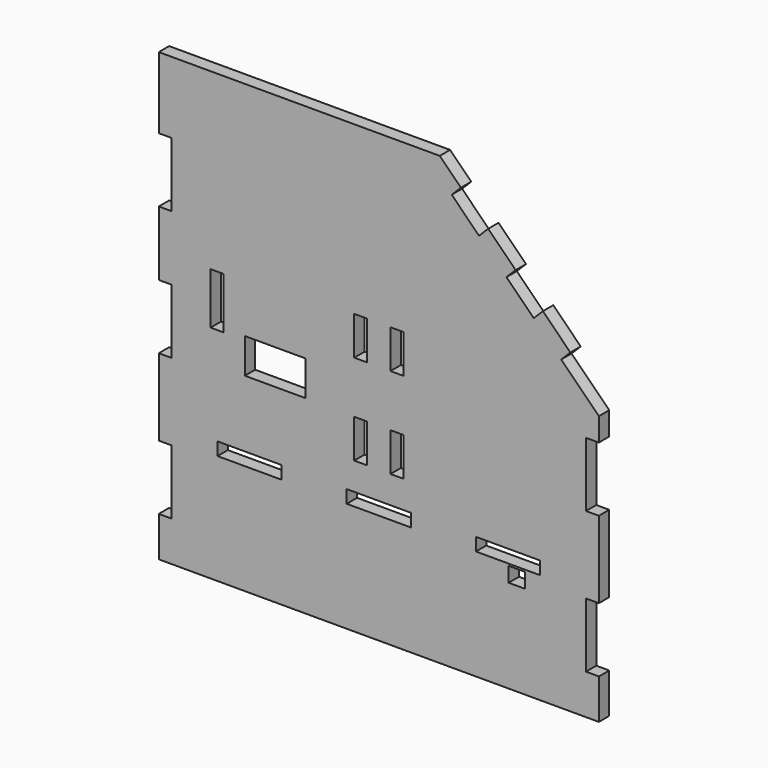
from build123d import *

# Parameters (mm, degrees)
SKETCH_W   = 49.6
SKETCH_H   = 10
SKETCH_W_2 = 10
SKETCH_H_2 = 39.8
SKETCH_W_3 = 47
SKETCH_H_3 = 27
SKETCH_H_4 = 29.8
SKETCH_W_4 = 12.5
SKETCH_H_5 = 11.5
PAD_DEPTH  = 10


with BuildPart() as part:
    # Sketch → Pad (new body)
    with BuildSketch(Plane.XZ):
        Polygon((0, 0), (0, 30.933), (10, 30.933), (10, 80.733), (0, 80.733), (0, 140.2), (10, 140.2), (10, 190), (0, 190), (0, 240), (10, 240), (10, 289.8), (0, 289.8), (0, 345), (217.0709, 345), (233.405067, 328.665833), (226.333999, 321.594766), (247.405781, 300.522983), (254.476849, 307.594051), (275.690052, 286.380848), (268.618985, 279.30978), (289.690767, 258.237998), (296.761835, 265.309066), (317.975038, 244.095862), (310.90397, 237.024795), (340, 207.928765), (340, 189.999765), (330, 189.999765), (330, 140.199765), (340, 140.199765), (340, 80.733), (330, 80.733), (330, 30.933), (340, 30.933), (340, 0), align=None)
        with Locations((70.2, 90)):
            Rectangle(SKETCH_W, SKETCH_H, mode=Mode.SUBTRACT)
        with Locations((170, 90)):
            Rectangle(SKETCH_W, SKETCH_H, mode=Mode.SUBTRACT)
        with Locations((269.8, 90)):
            Rectangle(SKETCH_W, SKETCH_H, mode=Mode.SUBTRACT)
        with Locations((45, 190.5)):
            Rectangle(SKETCH_W_2, SKETCH_H_2, mode=Mode.SUBTRACT)
        with Locations((90, 160)):
            Rectangle(SKETCH_W_3, SKETCH_H_3, mode=Mode.SUBTRACT)
        with Locations((156, 201.16)):
            Rectangle(SKETCH_W_2, SKETCH_H_4, mode=Mode.SUBTRACT)
        with Locations((184, 201.16)):
            Rectangle(SKETCH_W_2, SKETCH_H_4, mode=Mode.SUBTRACT)
        with Locations((156, 131.16)):
            Rectangle(SKETCH_W_2, SKETCH_H_4, mode=Mode.SUBTRACT)
        with Locations((184, 131.16)):
            Rectangle(SKETCH_W_2, SKETCH_H_4, mode=Mode.SUBTRACT)
        with Locations((276.54, 77.73)):
            Rectangle(SKETCH_W_4, SKETCH_H_5, mode=Mode.SUBTRACT)
    extrude(amount=PAD_DEPTH)


solid = part.part
